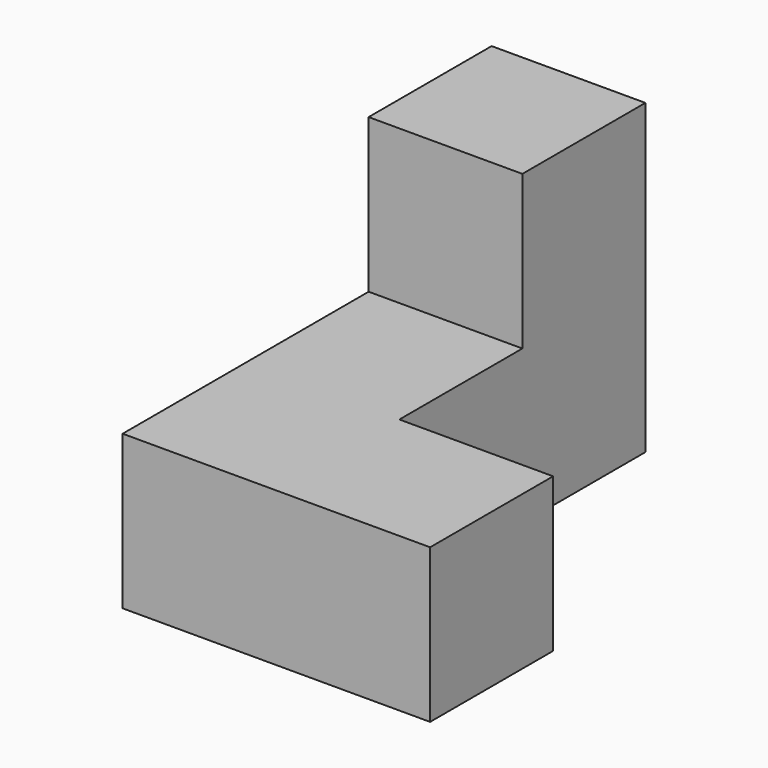
from build123d import *

# Parameters (mm, degrees)
F0_W      = 19.05
F0_H      = 19.05
F1_DEPTH  = 9.525
F1_FACE_W = 19.05
F1_FACE_H = 19.05
F2_DEPTH  = 19.05
F3_W      = 19.05
F3_H      = 19.05
F4_DEPTH  = 38.1
F5_W      = 19.05
F5_H      = 19.05
F6_DEPTH  = 19.05


with BuildPart() as f1:
    # F0 (on Front) → F1 (new body, symmetric)
    with BuildSketch(Plane.XZ):
        Rectangle(F0_W, F0_H)
    extrude(amount=F1_DEPTH, both=True)

    # F1_face (on face) → F2 (join)
    with BuildSketch(Plane.XY.offset(9.525)):
        Rectangle(F1_FACE_W, F1_FACE_H)
    extrude(amount=F2_DEPTH)

    # F3 (on face) → F4 (join)
    with BuildSketch(Plane.XZ.offset(9.525)):
        Rectangle(F3_W, F3_H)
    extrude(amount=F4_DEPTH)

    # F5 (on face) → F6 (join)
    with BuildSketch(Plane.YZ.offset(9.525)):
        with Locations((-38.1, 0)):
            Rectangle(F5_W, F5_H)
    extrude(amount=F6_DEPTH)


solid = f1.part
